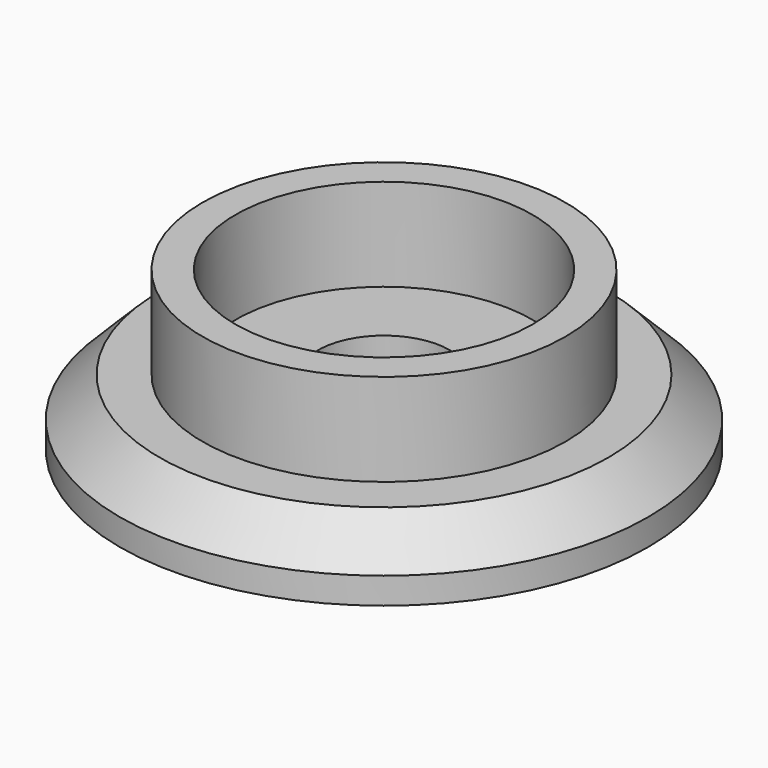
from build123d import *

# Parameters (mm, degrees)
F0_R     = 20
F1_DEPTH = 5
F2_R     = 13.75
F3_DEPTH = 7
F5_SIZE  = 3
F4_R     = 11.25
F6_DEPTH = 7
F7_R     = 5
F8_DEPTH = 5


with BuildPart() as f1:
    # F0 (on Top) → F1 (new body)
    with BuildSketch(Plane.XY):
        Circle(F0_R)
    extrude(amount=F1_DEPTH)

    # F2 (on face) → F3 (join)
    with BuildSketch(Plane.XY.offset(5)):
        Circle(F2_R)
    extrude(amount=F3_DEPTH)

    # F5
    f5_edges = [f1.edges().sort_by_distance(p)[0] for p in [
        (-20, 0, 5),
    ]]
    chamfer(f5_edges, length=F5_SIZE)

    # F4 (on face) → F6 (cut)
    with BuildSketch(Plane.XY.offset(12)):
        Circle(F4_R)
    extrude(amount=-F6_DEPTH, mode=Mode.SUBTRACT)

    # F7 (on face) → F8 (cut, through all)
    with BuildSketch(Plane.XY.offset(5)):
        Circle(F7_R)
    extrude(amount=-F8_DEPTH, mode=Mode.SUBTRACT)


solid = f1.part
